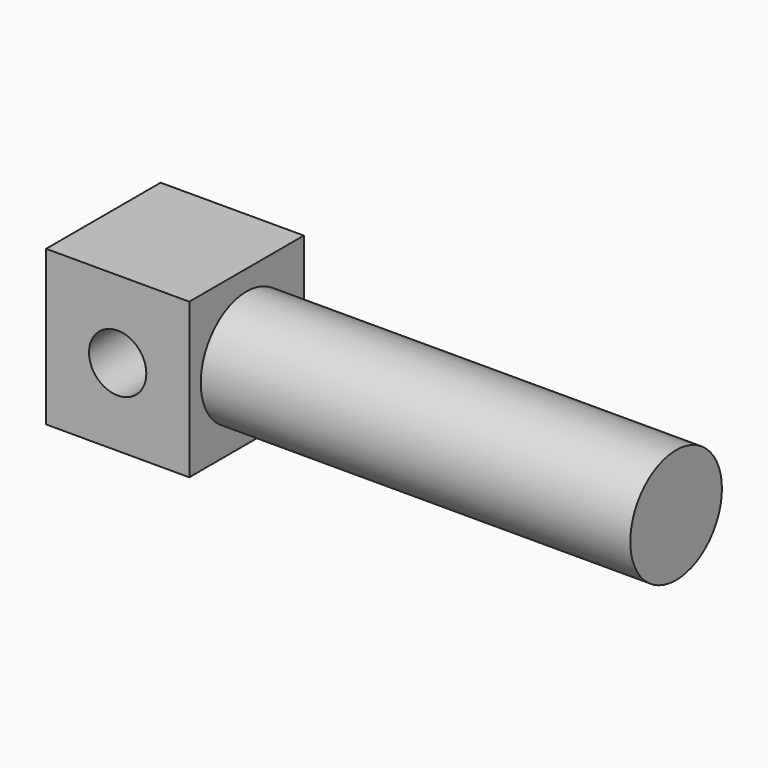
from build123d import *

# Parameters (mm, degrees)
F0_W     = 10
F0_H     = 10.8
F1_DEPTH = 10
F2_R     = 4
F3_DEPTH = 30
F4_R     = 2
F5_DEPTH = 25


with BuildPart() as f1:
    # F0 (on Right) → F1 (new body)
    with BuildSketch(Plane.YZ):
        with Locations((16.265796, 5.4)):
            Rectangle(F0_W, F0_H)
    extrude(amount=F1_DEPTH)

    # F2 (on face) → F3 (join)
    with BuildSketch(Plane.YZ.offset(10)):
        with Locations((16.265796, 5.4)):
            Circle(F2_R)
    extrude(amount=F3_DEPTH)

    # F4 (on face) → F5 (cut)
    with BuildSketch(Plane.XZ.offset(-11.265796)):
        with Locations((5, 5.4)):
            Circle(F4_R)
    extrude(amount=-F5_DEPTH, mode=Mode.SUBTRACT)


solid = f1.part
